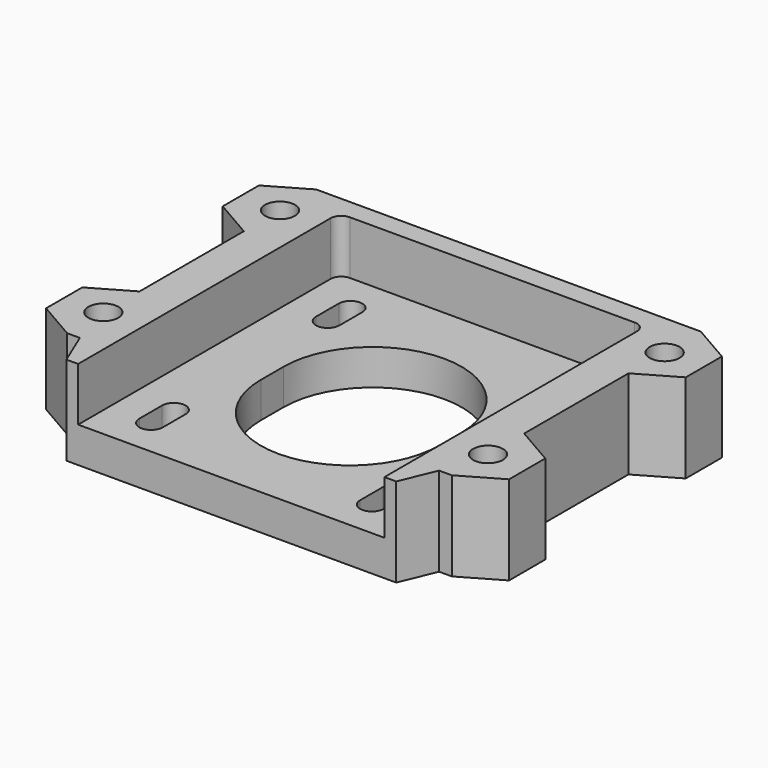
from build123d import *

# Parameters (mm, degrees)
SKETCH_R        = 2.1
PAD_DEPTH       = 12.5
SKETCH001_W     = 43
SKETCH001_H     = 45.8
POCKET_DEPTH    = 7.5
POCKET001_DEPTH = 4
FILLET_R        = 1.5
SKETCH003_R     = 2.1
PAD001_DEPTH    = 0.4


with BuildPart() as part:
    # Sketch → Pad (new body)
    with BuildSketch(Plane.XY):
        Polygon((-23.15, -26.8), (23.15, -26.8), (25.22, -21.850853), (27, -21.850853), (32.5, -18.675426), (32.5, -12.324574), (27, -9.149147), (27, 9.149147), (32.5, 12.324574), (32.5, 18.675426), (27, 21.850853), (-27, 21.850853), (-32.5, 18.675426), (-32.5, 12.324574), (-27, 9.149147), (-27, -9.149147), (-32.5, -12.324574), (-32.5, -18.675426), (-27, -21.850853), (-25.22, -21.850853), align=None)
        with Locations((-27, 15.5)):
            Circle(SKETCH_R, mode=Mode.SUBTRACT)
        with Locations((-27, -15.5)):
            Circle(SKETCH_R, mode=Mode.SUBTRACT)
        with Locations((27, 15.5)):
            Circle(SKETCH_R, mode=Mode.SUBTRACT)
        with Locations((27, -15.5)):
            Circle(SKETCH_R, mode=Mode.SUBTRACT)
        with BuildLine():
            ThreePointArc((12.5, -2), (0, 10.5), (-12.5, -2))
            Line((-12.5, -2), (-12.5, -6))
            ThreePointArc((-12.5, -6), (0, -18.5), (12.5, -6))
            Line((12.5, -2), (12.5, -6))
        make_face(mode=Mode.SUBTRACT)
        with BuildLine():
            ThreePointArc((-13.85, 13.5), (-15.5, 15.15), (-17.15, 13.5))
            Line((-17.15, 13.5), (-17.15, 9.5))
            ThreePointArc((-17.15, 9.5), (-15.5, 7.85), (-13.85, 9.5))
            Line((-13.85, 13.5), (-13.85, 9.5))
        make_face(mode=Mode.SUBTRACT)
        with BuildLine():
            ThreePointArc((17.15, 13.5), (15.5, 15.15), (13.85, 13.5))
            Line((13.85, 13.5), (13.85, 9.5))
            ThreePointArc((13.85, 9.5), (15.5, 7.85), (17.15, 9.5))
            Line((17.15, 13.5), (17.15, 9.5))
        make_face(mode=Mode.SUBTRACT)
        with BuildLine():
            ThreePointArc((-13.85, -17.5), (-15.5, -15.85), (-17.15, -17.5))
            Line((-17.15, -17.5), (-17.15, -21.5))
            ThreePointArc((-17.15, -21.5), (-15.5, -23.15), (-13.85, -21.5))
            Line((-13.85, -17.5), (-13.85, -21.5))
        make_face(mode=Mode.SUBTRACT)
        with BuildLine():
            ThreePointArc((17.15, -17.5), (15.5, -15.85), (13.85, -17.5))
            Line((13.85, -17.5), (13.85, -21.5))
            ThreePointArc((13.85, -21.5), (15.5, -23.15), (17.15, -21.5))
            Line((17.15, -17.5), (17.15, -21.5))
        make_face(mode=Mode.SUBTRACT)
    extrude(amount=PAD_DEPTH)

    # Sketch001 (on Face46 of Pad) → Pocket (cut)
    with BuildSketch(Plane.XY.offset(12.5)):
        with Locations((0, -3.9)):
            Rectangle(SKETCH001_W, SKETCH001_H)
    extrude(amount=-POCKET_DEPTH, mode=Mode.SUBTRACT)

    # Sketch002 (on Face4 of Pocket) → Pocket001 (cut)
    with BuildSketch(Plane(origin=(0, 0, 0), x_dir=(1, 0, 0), z_dir=(0, 0, -1))):
        Polygon((-23.5, 13.479274), (-23.5, 17.520726), (-27, 19.541452), (-30.5, 17.520726), (-30.5, 13.479274), (-27, 11.458548), align=None)
        Polygon((-23.5, -17.520726), (-23.5, -13.479274), (-27, -11.458548), (-30.5, -13.479274), (-30.5, -17.520726), (-27, -19.541452), align=None)
        Polygon((30.5, -17.520726), (30.5, -13.479274), (27, -11.458548), (23.5, -13.479274), (23.5, -17.520726), (27, -19.541452), align=None)
        Polygon((30.5, 13.479274), (30.5, 17.520726), (27, 19.541452), (23.5, 17.520726), (23.5, 13.479274), (27, 11.458548), align=None)
    extrude(amount=-POCKET001_DEPTH, mode=Mode.SUBTRACT)

    # Fillet
    fillet_edges = [part.edges().sort_by_distance(p)[0] for p in [
        (-21.5, 19, 8.75),
        (21.5, 19, 8.75),
    ]]
    fillet(fillet_edges, radius=FILLET_R)

    # Sketch003 (on Face33 of Fillet) → Pad001 (join)
    with BuildSketch(Plane(origin=(0, 0, 4), x_dir=(1, 0, 0), z_dir=(0, 0, -1))):
        with Locations((-27, 15.5)):
            Circle(SKETCH003_R)
        with Locations((27, 15.5)):
            Circle(SKETCH003_R)
        with Locations((-27, -15.5)):
            Circle(SKETCH003_R)
        with Locations((27, -15.5)):
            Circle(SKETCH003_R)
    extrude(amount=-PAD001_DEPTH)


solid = part.part
